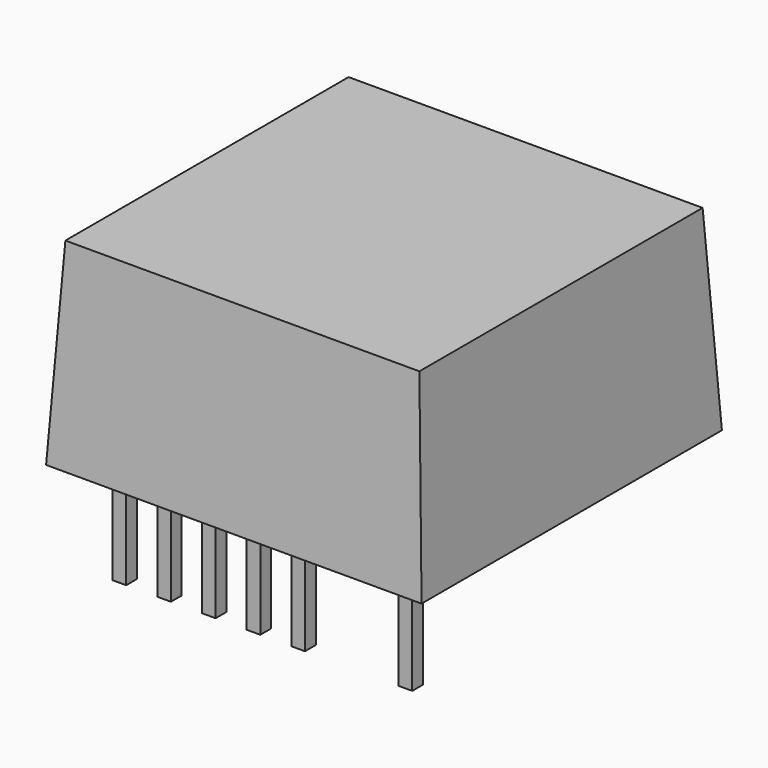
from build123d import *

# Parameters (mm, degrees)
F0_W     = 21
F0_H     = 21
F1_DEPTH = 11
F3_DEPTH = 21.001
F5_DEPTH = 25
F6_W     = 0.76
F6_H     = 0.76
F7_DEPTH = 5.8


with BuildPart() as f1:
    # F0 (on Top) → F1 (new body)
    with BuildSketch(Plane.XY):
        with Locations((10.5, 10.5)):
            Rectangle(F0_W, F0_H)
    extrude(amount=F1_DEPTH)

    # F2 (on face) → F3 (cut, through all)
    with BuildSketch(Plane.XZ):
        Polygon((0, 11), (0, 0), (0.6, 11), align=None)
        Polygon((20.4, 11), (21, 0), (21, 11), align=None)
    extrude(amount=-F3_DEPTH, mode=Mode.SUBTRACT)

    # F4 (on Right) → F5 (cut)
    with BuildSketch(Plane.YZ):
        Polygon((20.4, 11), (21, 0), (21, 11), align=None)
        Polygon((0, 11), (0, 0), (0.6, 11), align=None)
    extrude(amount=F5_DEPTH, mode=Mode.SUBTRACT)

    # F6 (on face) → F7 (join)
    with BuildSketch(Plane(origin=(0, 0, 0), x_dir=(1, 0, 0), z_dir=(0, 0, -1))):
        with Locations((2.5, -2.38)):
            Rectangle(F6_W, F6_H)
        with Locations((5, -2.38)):
            Rectangle(F6_W, F6_H)
        with Locations((7.5, -2.38)):
            Rectangle(F6_W, F6_H)
        with Locations((10, -2.38)):
            Rectangle(F6_W, F6_H)
        with Locations((12.5, -2.38)):
            Rectangle(F6_W, F6_H)
        with Locations((18.5, -2.38)):
            Rectangle(F6_W, F6_H)
    extrude(amount=F7_DEPTH)


solid = f1.part
